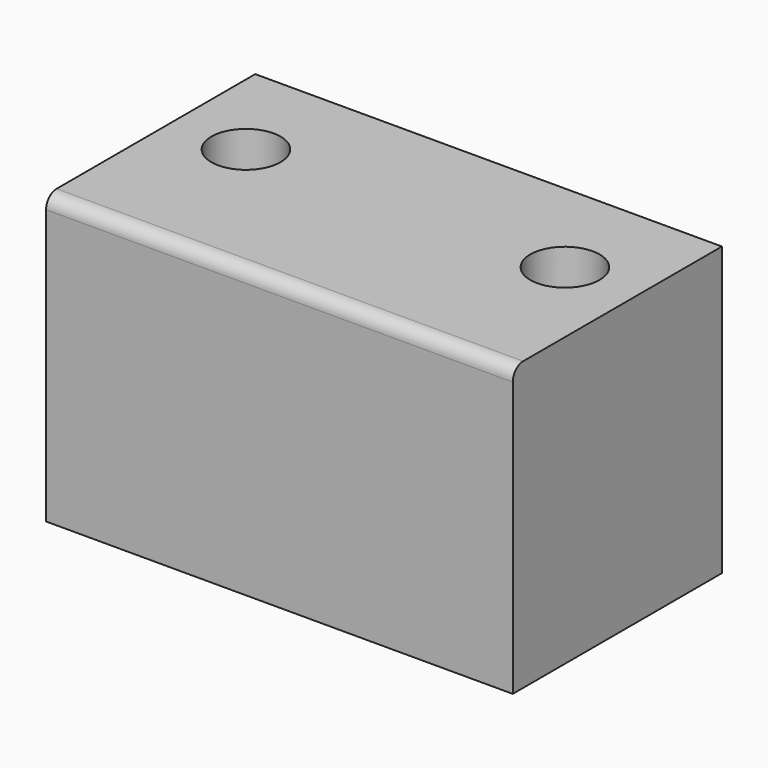
from build123d import *

# Parameters (mm, degrees)
F0_W     = 35.7
F0_H     = 20
F0_R     = 2.65
F1_DEPTH = 22
F2_R     = 1


with BuildPart() as f1:
    # F0 (on Top) → F1 (new body)
    with BuildSketch(Plane.XY):
        Rectangle(F0_W, F0_H)
        with Locations((-12.2, 2.05)):
            Circle(F0_R, mode=Mode.SUBTRACT)
        with Locations((12.2, 2.05)):
            Circle(F0_R, mode=Mode.SUBTRACT)
    extrude(amount=F1_DEPTH)

    # F2
    f2_edges = [f1.edges().sort_by_distance(p)[0] for p in [
        (0, -10, 22),
    ]]
    fillet(f2_edges, radius=F2_R)


solid = f1.part
